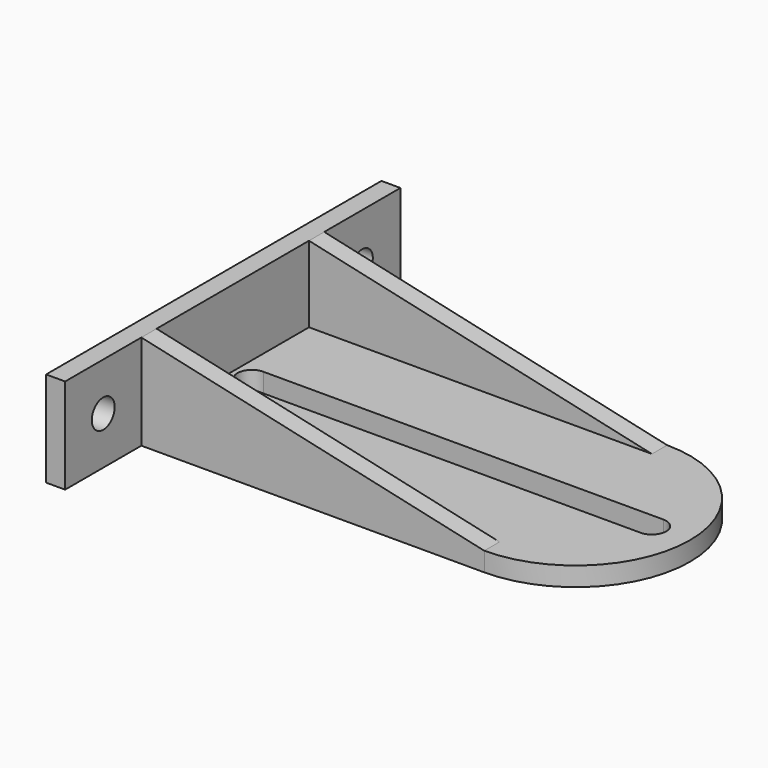
from build123d import *

# Parameters (mm, degrees)
SKETCH_W          = 22
SKETCH_H          = 10
PAD_DEPTH         = 2
SKETCH001_R       = 1.5
POCKET_DEPTH      = 2.001
POCKET_DEPTH_BACK = -0.001
SKETCH002_W       = 22
SKETCH002_H       = 10
PAD001_DEPTH      = 2
SKETCH003_R       = 1.375
POCKET001_DEPTH   = 2.001
PAD002_DEPTH      = 2
POCKET002_DEPTH   = 10.001
PAD003_DEPTH      = 24
SKETCH007_W       = 20
SKETCH007_H       = 8
POCKET003_DEPTH   = 48.001


with BuildPart() as part:
    # Sketch → Pad (new body)
    with BuildSketch(Plane.YZ):
        with Locations((1, 5)):
            Rectangle(SKETCH_W, SKETCH_H)
    extrude(amount=-PAD_DEPTH)

    # Sketch001 → Pocket (cut, two sides)
    with BuildSketch(Plane.YZ) as pocket_sk:
        with Locations((-5, 5)):
            Circle(SKETCH001_R)
    extrude(amount=-POCKET_DEPTH, mode=Mode.SUBTRACT)
    extrude(pocket_sk.sketch, amount=-POCKET_DEPTH_BACK, mode=Mode.SUBTRACT)

    # Sketch002 → Pad001 (join)
    with BuildSketch(Plane.YZ):
        with Locations((23, 5)):
            Rectangle(SKETCH002_W, SKETCH002_H)
    extrude(amount=-PAD001_DEPTH)

    # Sketch003 → Pocket001 (cut, through all)
    with BuildSketch(Plane.YZ):
        with Locations((29, 5)):
            Circle(SKETCH003_R)
    extrude(amount=-POCKET001_DEPTH, mode=Mode.SUBTRACT)

    # Sketch004 → Pad002 (join)
    with BuildSketch(Plane.XY):
        with BuildLine():
            ThreePointArc((36, 0), (48, 12), (36, 24))
            Line((36, 24), (-2, 24))
            Line((-2, 24), (-2, 0))
            Line((36, 0), (-2, 0))
        make_face()
    extrude(amount=PAD002_DEPTH)

    # Sketch005 → Pocket002 (cut, through all)
    with BuildSketch(Plane.XY):
        with BuildLine():
            ThreePointArc((2, 13.5), (0.5, 12), (2, 10.5))
            Line((2, 10.5), (44, 10.5))
            ThreePointArc((44, 10.5), (45.5, 12), (44, 13.5))
            Line((2, 13.5), (44, 13.5))
        make_face()
    extrude(amount=POCKET002_DEPTH, mode=Mode.SUBTRACT)

    # Sketch006 → Pad003 (join)
    with BuildSketch(Plane.XZ):
        Polygon((0, 10), (36, 2), (0, 2), align=None)
    extrude(amount=-PAD003_DEPTH)

    # Sketch007 → Pocket003 (cut, through all)
    with BuildSketch(Plane.YZ):
        with Locations((12, 6)):
            Rectangle(SKETCH007_W, SKETCH007_H)
    extrude(amount=POCKET003_DEPTH, mode=Mode.SUBTRACT)


solid = part.part
